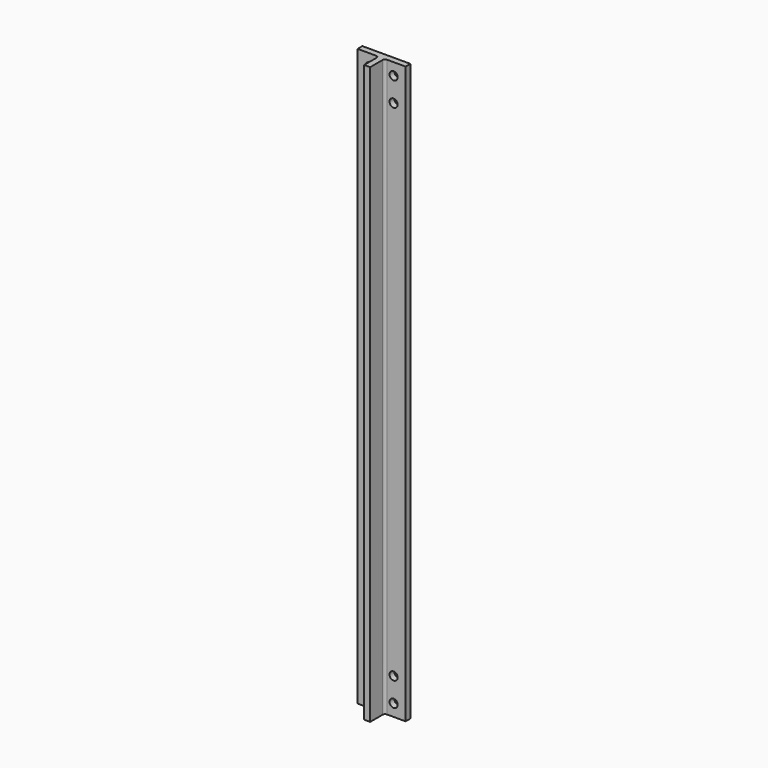
from build123d import *

# Parameters (mm, degrees)
F1_DEPTH = 304.8
F2_R     = 1.27
F4_D     = 4.318
F4_DEPTH = 25.4
F4_TIP   = 1.2972580765


with BuildPart() as f1:
    # F0 (on Top) → F1 (new body)
    with BuildSketch(Plane.XY):
        Polygon((12.7, 0), (0, 0), (-12.7, 0), (-12.7, -3.175), (-1.5875, -3.175), (-1.5875, -12.7), (0, -12.7), (1.5875, -12.7), (1.5875, -3.175), (12.7, -3.175), align=None)
    extrude(amount=F1_DEPTH)

    # F2
    f2_edges = [f1.edges().sort_by_distance(p)[0] for p in [
        (-1.5875, -3.175, 152.4),
        (1.5875, -3.175, 152.4),
    ]]
    fillet(f2_edges, radius=F2_R)

    # F4
    with Locations(Plane(origin=(0, 0, 0), x_dir=(-1, 0, 0), z_dir=(0, 1, 0))):
        with Locations((-6.35, 298.45), (-6.35, 285.75), (6.35, 285.75), (6.35, 298.45), (-6.35, 6.35), (-6.35, 19.05), (6.35, 19.05), (6.35, 6.35)):
            Hole(F4_D / 2, depth=F4_DEPTH)
            with Locations((0, 0, -(F4_DEPTH + F4_TIP / 2))):  # 118° drill point
                Cone(0, F4_D / 2, F4_TIP, mode=Mode.SUBTRACT)


solid = f1.part
